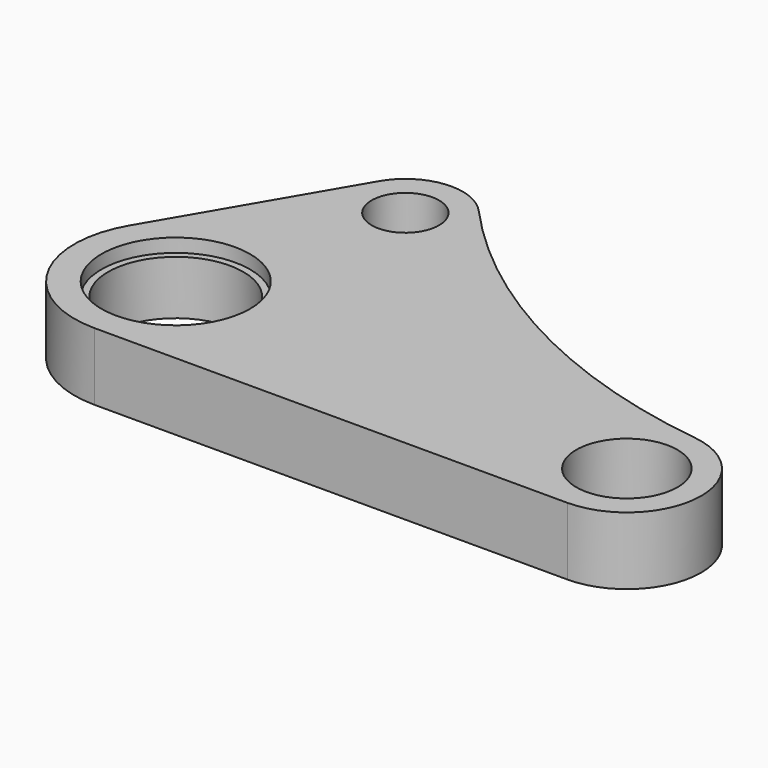
from build123d import *

# Parameters (mm, degrees)
F0_R     = 12.7
F0_R_2   = 9.525
F0_R_3   = 6.35
F1_DEPTH = 6.35
F2_R     = 13.97
F3_DEPTH = 2.54


with BuildPart() as f1:
    # F0 (on Top) → F1 (new body, symmetric)
    with BuildSketch(Plane.XY):
        with BuildLine():
            Line((3.379315, 43.545812), (-16.448267, 9.610256))
            ThreePointArc((-16.448267, 9.610256), (-16.522377, -9.482276), (0, -19.05))
            Line((0, -19.05), (88.9, -19.05))
            ThreePointArc((88.9, -19.05), (102.841054, -5.978839), (90.693954, 8.774336))
            ThreePointArc((90.693954, 8.774336), (52.435987, 20.825014), (20.697055, 45.351147))
            ThreePointArc((20.697055, 45.351147), (11.580711, 48.836816), (3.379315, 43.545812))
        make_face()
        Circle(F0_R, mode=Mode.SUBTRACT)
        with Locations((88.9, -5.08)):
            Circle(F0_R_2, mode=Mode.SUBTRACT)
        with Locations((12.7, 38.1)):
            Circle(F0_R_3, mode=Mode.SUBTRACT)
    extrude(amount=F1_DEPTH, both=True)

    # F2 (on face) → F3 (cut)
    with BuildSketch(Plane.XY.offset(6.35)):
        Circle(F2_R)
    extrude(amount=-F3_DEPTH, mode=Mode.SUBTRACT)


solid = f1.part
